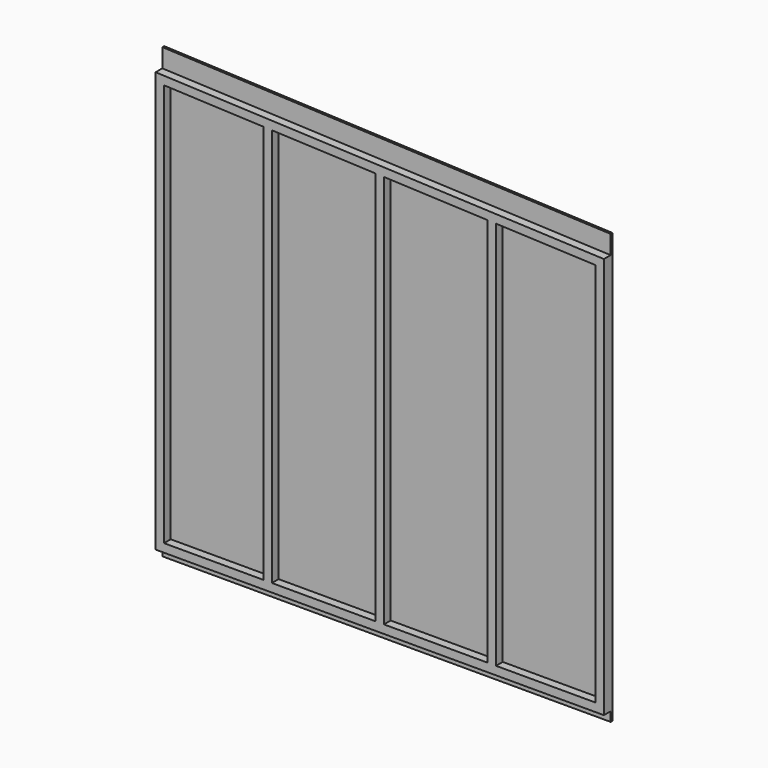
from build123d import *

# Parameters (mm, degrees)
F1_DEPTH = 45
F0_W     = 2400
F0_H     = 50
F2_DEPTH = 12


with BuildPart() as f1:
    # F0 (on Front) → F1 (new body)
    with BuildSketch(Plane.XZ):
        Polygon((1155, 981.835954), (1200, 979.960954), (1200, 1025), (-1200, 1125), (-1200, 1079.960954), (-1155, 1078.085954), (-622.5, 1055.898454), (-577.5, 1054.023454), (-22.5, 1030.898454), (22.5, 1029.023454), (577.5, 1005.898454), (622.5, 1004.023454), align=None)
        Polygon((-1200, 1079.960954), (-1200, -1080), (-1155, -1080), (-1155, 1078.085954), align=None)
        Polygon((-622.5, 1055.898454), (-622.5, -1080), (-577.5, -1080), (-577.5, 1054.023454), align=None)
        Polygon((-22.5, -1080), (22.5, -1080), (22.5, 1029.023454), (-22.5, 1030.898454), align=None)
        Polygon((577.5, -1080), (622.5, -1080), (622.5, 1004.023454), (577.5, 1005.898454), align=None)
        Polygon((1155, -1080), (1200, -1080), (1200, 979.960954), (1155, 981.835954), align=None)
        Polygon((-1200, -1125), (1200, -1125), (1200, -1080), (1155, -1080), (622.5, -1080), (577.5, -1080), (22.5, -1080), (-22.5, -1080), (-577.5, -1080), (-622.5, -1080), (-1155, -1080), (-1200, -1080), align=None)
    extrude(amount=F1_DEPTH)

    # F0 (on Front) → F2 (join)
    with BuildSketch(Plane.XZ):
        Polygon((-1155, 1078.085954), (-1155, -1080), (-622.5, -1080), (-622.5, 1055.898454), align=None)
        Polygon((-577.5, 1054.023454), (-577.5, -1080), (-22.5, -1080), (-22.5, 1030.898454), align=None)
        Polygon((22.5, -1080), (577.5, -1080), (577.5, 1005.898454), (22.5, 1029.023454), align=None)
        Polygon((622.5, -1080), (1155, -1080), (1155, 981.835954), (622.5, 1004.023454), align=None)
        Polygon((-1200, 1125), (1200, 1025), (1200, 1125), (-1200, 1225), align=None)
        Polygon((1155, 981.835954), (1200, 979.960954), (1200, 1025), (-1200, 1125), (-1200, 1079.960954), (-1155, 1078.085954), (-622.5, 1055.898454), (-577.5, 1054.023454), (-22.5, 1030.898454), (22.5, 1029.023454), (577.5, 1005.898454), (622.5, 1004.023454), align=None)
        Polygon((-1200, 1079.960954), (-1200, -1080), (-1155, -1080), (-1155, 1078.085954), align=None)
        Polygon((-622.5, 1055.898454), (-622.5, -1080), (-577.5, -1080), (-577.5, 1054.023454), align=None)
        Polygon((-22.5, -1080), (22.5, -1080), (22.5, 1029.023454), (-22.5, 1030.898454), align=None)
        Polygon((577.5, -1080), (622.5, -1080), (622.5, 1004.023454), (577.5, 1005.898454), align=None)
        Polygon((1155, -1080), (1200, -1080), (1200, 979.960954), (1155, 981.835954), align=None)
        Polygon((-1200, -1125), (1200, -1125), (1200, -1080), (1155, -1080), (622.5, -1080), (577.5, -1080), (22.5, -1080), (-22.5, -1080), (-577.5, -1080), (-622.5, -1080), (-1155, -1080), (-1200, -1080), align=None)
        with Locations((0, -1150)):
            Rectangle(F0_W, F0_H)
    extrude(amount=-F2_DEPTH)


solid = f1.part
